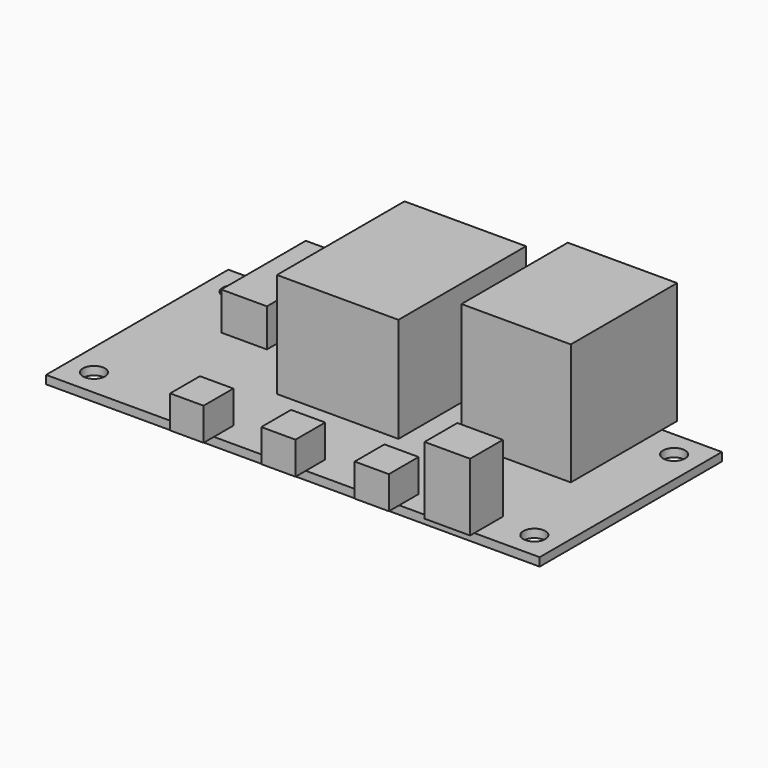
from build123d import *

# Parameters (mm, degrees)
SKETCH040_W             = 65
SKETCH040_H             = 30
SKETCH040_R             = 1.45
PAD013_DEPTH            = 1.1
SKETCH042_W             = 14.4
SKETCH042_H             = 17.5
PAD014_DEPTH            = 16
SKETCH043_W             = 16
SKETCH043_H             = 21
PAD015_DEPTH            = 13.8
SKETCH044_W             = 6
SKETCH044_H             = 13.9
PAD016_DEPTH            = 5
SKETCH045_W             = 4.4
SKETCH045_H             = 4.9
SKETCH045_W_2           = 4.5
PAD017_DEPTH            = 4.3
SKETCH046_W             = 6
SKETCH046_H             = 5.4
PAD018_DEPTH            = 8.9
BODY004_PLACEMENT_ANGLE = 180


with BuildPart() as part:
    # Sketch040 → Pad013 (new body)
    with BuildSketch(Plane.XY):
        Rectangle(SKETCH040_W, SKETCH040_H)
        with Locations((-29, 11.5)):
            Circle(SKETCH040_R, mode=Mode.SUBTRACT)
        with Locations((29, 11.5)):
            Circle(SKETCH040_R, mode=Mode.SUBTRACT)
        with Locations((29, -11.5)):
            Circle(SKETCH040_R, mode=Mode.SUBTRACT)
        with Locations((-29, -11.5)):
            Circle(SKETCH040_R, mode=Mode.SUBTRACT)
    extrude(amount=PAD013_DEPTH)

    # Sketch042 (on Face10 of Pad013) → Pad014 (join)
    with BuildSketch(Plane.XY.offset(1.1)):
        with Locations((-17.4, -8.75)):
            Rectangle(SKETCH042_W, SKETCH042_H)
    extrude(amount=PAD014_DEPTH)

    # Sketch043 (on Face5 of Pad014) → Pad015 (join)
    with BuildSketch(Plane.XY.offset(1.1)):
        with Locations((3.3, -7)):
            Rectangle(SKETCH043_W, SKETCH043_H)
    extrude(amount=PAD015_DEPTH)

    # Sketch044 (on Face5 of Pad015) → Pad016 (join)
    with BuildSketch(Plane.XY.offset(1.1)):
        with Locations((21.3, -10.55)):
            Rectangle(SKETCH044_W, SKETCH044_H)
    extrude(amount=PAD016_DEPTH)

    # Sketch045 (on Face5 of Pad016) → Pad017 (join)
    with BuildSketch(Plane.XY.offset(1.1)):
        with Locations((12.6, 14.25)):
            Rectangle(SKETCH045_W, SKETCH045_H)
        with Locations((0.55, 14.25)):
            Rectangle(SKETCH045_W_2, SKETCH045_H)
        with Locations((-11.75, 14.25)):
            Rectangle(SKETCH045_W_2, SKETCH045_H)
    extrude(amount=PAD017_DEPTH)

    # Sketch046 (on Face5 of Pad017) → Pad018 (join)
    with BuildSketch(Plane.XY.offset(1.1)):
        with Locations((-20.9, 13)):
            Rectangle(SKETCH046_W, SKETCH046_H)
    extrude(amount=PAD018_DEPTH)


with BuildPart() as part_1:
    # Body004 placement: moved
    add(part.part.moved(Location((0, 0, 13.5))).rotate(Axis((0, 0, 13.5), (0, 0, 1)), BODY004_PLACEMENT_ANGLE))


solid = part_1.part
